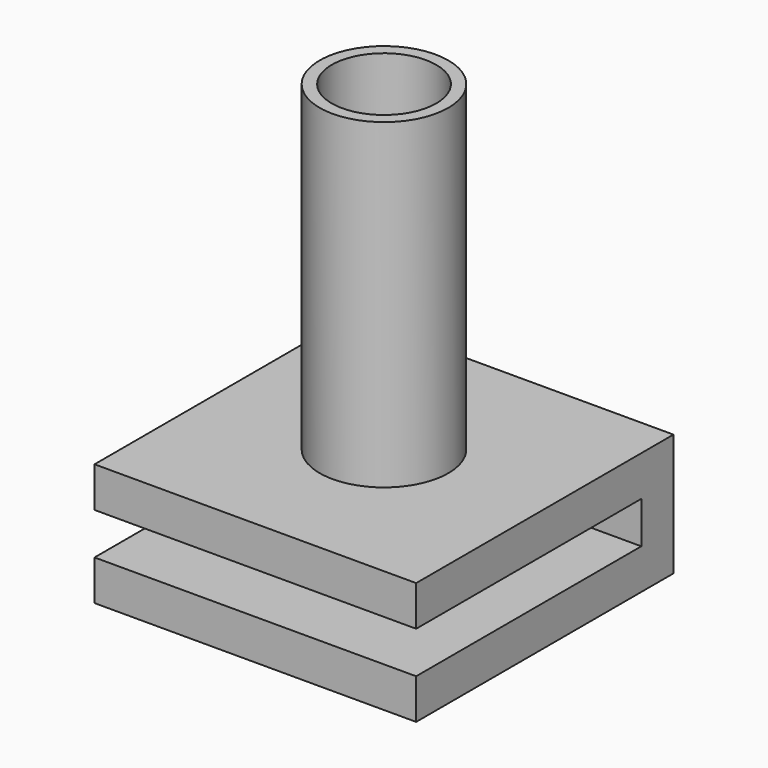
from build123d import *

# Parameters (mm, degrees)
F0_W     = 50.8
F0_H     = 50.8
F1_DEPTH = 6.35
F2_W     = 50.8
F2_H     = 6.35
F3_DEPTH = 6.604
F4_W     = 50.8
F4_H     = 50.8
F5_DEPTH = 6.35
F6_R     = 10.16
F6_R_2   = 8.255
F7_DEPTH = 50.8


with BuildPart() as f1:
    # F0 (on Top) → F1 (new body)
    with BuildSketch(Plane.XY):
        Rectangle(F0_W, F0_H)
    extrude(amount=F1_DEPTH)

    # F2 (on face) → F3 (join)
    with BuildSketch(Plane.XY.offset(6.35)):
        with Locations((0, 22.225)):
            Rectangle(F2_W, F2_H)
    extrude(amount=F3_DEPTH)

    # F4 (on face) → F5 (join)
    with BuildSketch(Plane.XY.offset(12.954)):
        Rectangle(F4_W, F4_H)
    extrude(amount=F5_DEPTH)

    # F6 (on face) → F7 (join)
    with BuildSketch(Plane.XY.offset(19.304)):
        Circle(F6_R)
        Circle(F6_R_2, mode=Mode.SUBTRACT)
    extrude(amount=F7_DEPTH)


solid = f1.part
